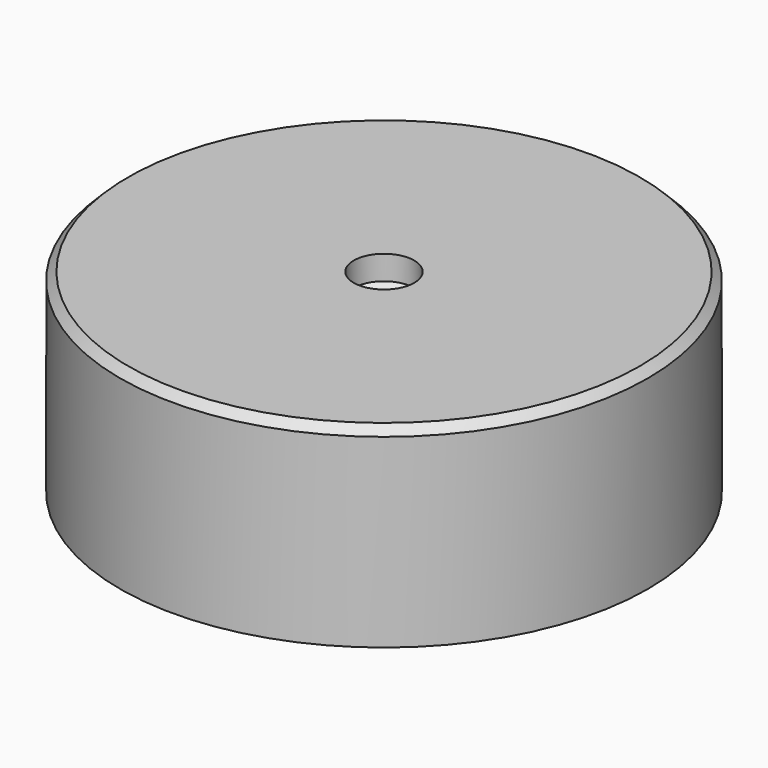
from build123d import *

# Parameters (mm, degrees)
CHAMFER_SIZE    = 1
SKETCH003_W     = 12
SKETCH003_H     = 50
POCKET001_DEPTH = 10.5


with BuildPart() as part:
    # Sketch002 → Revolution (revolve)
    with BuildSketch(Plane.XZ):
        Polygon((32.72376, 0), (32.72376, -24), (29.72376, -24), (29.72376, -17.5), (31.22376, -16), (29.72376, -14.5), (29.72376, -3), (3.75, -3), (3.75, 0), align=None)
    revolve(axis=Axis((0, 0, 0), (0, 0, 1)))

    # Chamfer
    chamfer_edges = [part.edges().sort_by_distance(p)[0] for p in [
        (-32.72376, 0, 0),
    ]]
    chamfer(chamfer_edges, length=CHAMFER_SIZE)

    # Sketch003 (on Face6 of Chamfer) → Pocket001 (cut)
    with BuildSketch(Plane(origin=(0, 0, -24), x_dir=(1, 0, 0), z_dir=(0, 0, -1))):
        with Locations((0, -25)):
            Rectangle(SKETCH003_W, SKETCH003_H)
    extrude(amount=-POCKET001_DEPTH, mode=Mode.SUBTRACT)


solid = part.part
